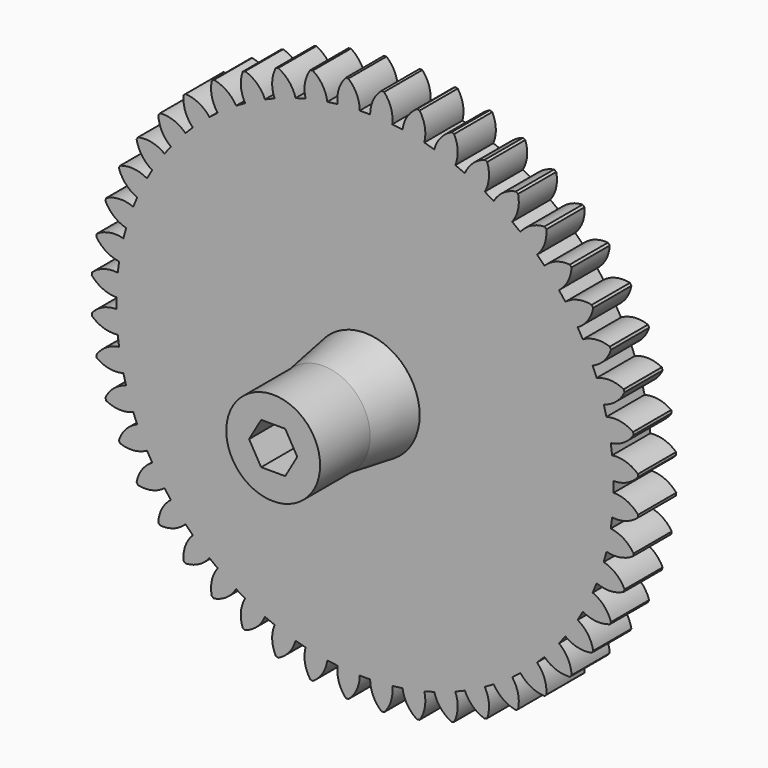
from build123d import *

# Parameters (mm, degrees)
F0_R      = 26.25
F1_DEPTH  = 4.572
F3_DEPTH  = 4.573
F4_COUNT  = 48
F5_R      = 5.25
F7_R      = 4.5
F9_DEPTH  = 6
F10_R     = 4.5
F11_DEPTH = 8.5
F12_R     = 1.25
F13_DEPTH = 7.073
F14_R     = 1.25
F15_DEPTH = 6


with BuildPart() as f1:
    # F0 (on Front) → F1 (new body)
    with BuildSketch(Plane.XZ):
        Circle(F0_R)
    extrude(amount=F1_DEPTH)

    # F2 (on face) → F3 (cut, through all)
    with BuildSketch(Plane.XZ.offset(4.572)):
        with BuildLine():
            ThreePointArc((-1.5906528536, 26.2017618396), (-0.7847116372, 25.1452763594), (-0.49832819, 23.8477065788))
            Line((-0.49832819, 23.8477065788), (0.49832819, 23.8477065788))
            ThreePointArc((0.49832819, 23.8477065788), (0.7847116372, 25.1452763594), (1.5906528536, 26.2017618396))
            ThreePointArc((1.5906528536, 26.2017618396), (0, 26.25), (-1.5906528536, 26.2017618396))
        make_face()
    f3 = extrude(amount=-F3_DEPTH, mode=Mode.SUBTRACT)

    # F4: F3 ×48 about axis
    f4_axis = Axis((0, 0, 0), (0, 1, 0))
    for i in range(1, F4_COUNT):
        add(f3.rotate(f4_axis, i * 360 / F4_COUNT), mode=Mode.SUBTRACT)

    # F5 (on face) → F8 section 0
    with BuildSketch(Plane.XZ.offset(4.572)):
        Circle(F5_R)
    # F7 (on offset) → F8 section 1
    with BuildSketch(Plane.XZ.offset(9.572)):
        Circle(F7_R)
    loft()

    # F9 (add): a face of the model
    f9_faces = [f1.faces().sort_by_distance(p)[0] for p in [
        (0, -9.572, 0),
    ]]
    extrude(f9_faces, amount=F9_DEPTH)

    # F10 (on face) → F11 (cut)
    with BuildSketch(Plane(origin=(0, 0, 0), x_dir=(-1, 0, 0), z_dir=(0, 1, 0))):
        Circle(F10_R)
    extrude(amount=-F11_DEPTH, mode=Mode.SUBTRACT)

    # F12 (on face) → F13 (cut, through all)
    with BuildSketch(Plane(origin=(0, -8.5, 0), x_dir=(-1, 0, 0), z_dir=(0, 1, 0))):
        Circle(F12_R)
    extrude(amount=-F13_DEPTH, mode=Mode.SUBTRACT)

    # F14 (on face) → F15 (cut)
    with BuildSketch(Plane.XZ.offset(15.572)):
        Polygon((1.1547005384, 2), (-1.1547005384, 2), (-2.3094010768, 0), (-1.1547005384, -2), (1.1547005384, -2), (2.3094010768, 0), align=None)
        Circle(F14_R, mode=Mode.SUBTRACT)
    extrude(amount=-F15_DEPTH, mode=Mode.SUBTRACT)


solid = f1.part
